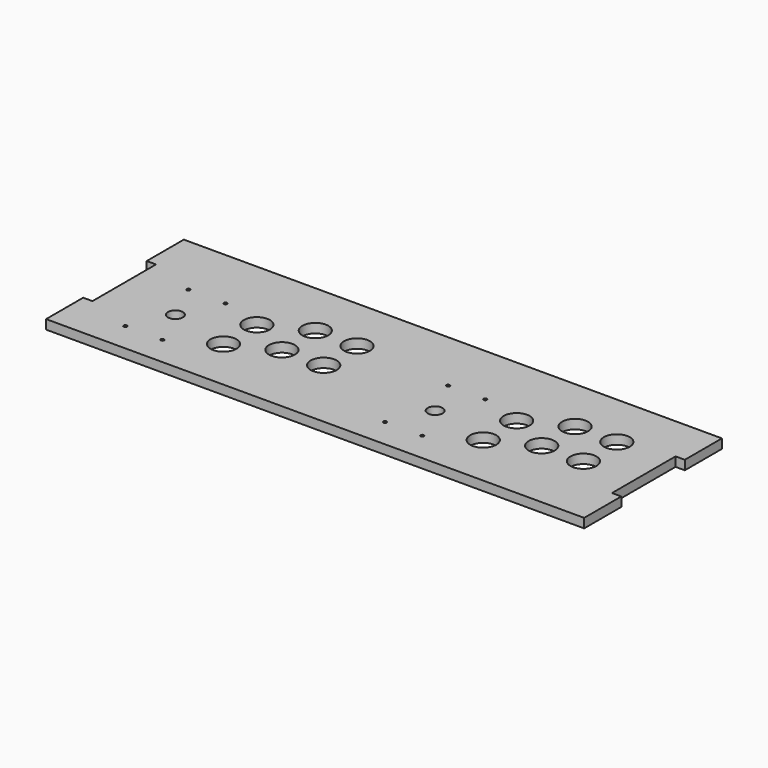
from build123d import *

# Parameters (mm, degrees)
PAD_DEPTH     = 10
SKETCH001_R   = 8
SKETCH001_R_2 = 14
SKETCH001_R_3 = 1.8
POCKET_DEPTH  = 10.001


with BuildPart() as part:
    # Sketch → Pad (new body)
    with BuildSketch(Plane.XY):
        Polygon((0, 0), (560, 0), (570, 0), (570, 50), (560, 50), (560, 135.6), (570, 135.6), (570, 185.6), (560, 185.6), (0, 185.6), (-10, 185.6), (-10, 135.6), (0, 135.6), (0, 50), (-10, 50), (-10, 0), align=None)
    extrude(amount=PAD_DEPTH)

    # Sketch001 → Pocket (cut, through all)
    with BuildSketch(Plane.XY.offset(10)):
        with Locations((70, 74.24)):
            Circle(SKETCH001_R)
        with Locations((135, 102.76)):
            Circle(SKETCH001_R_2)
        with Locations((180, 125.26)):
            Circle(SKETCH001_R_2)
        with Locations((225, 125.26)):
            Circle(SKETCH001_R_2)
        with Locations((135, 57.76)):
            Circle(SKETCH001_R_2)
        with Locations((180, 80.26)):
            Circle(SKETCH001_R_2)
        with Locations((225, 80.26)):
            Circle(SKETCH001_R_2)
        with Locations((350, 74.24)):
            Circle(SKETCH001_R)
        with Locations((415, 102.76)):
            Circle(SKETCH001_R_2)
        with Locations((460, 125.26)):
            Circle(SKETCH001_R_2)
        with Locations((505, 125.26)):
            Circle(SKETCH001_R_2)
        with Locations((505, 80.26)):
            Circle(SKETCH001_R_2)
        with Locations((460, 80.26)):
            Circle(SKETCH001_R_2)
        with Locations((415, 57.76)):
            Circle(SKETCH001_R_2)
        with Locations((50, 116.74)):
            Circle(SKETCH001_R_3)
        with Locations((90, 116.74)):
            Circle(SKETCH001_R_3)
        with Locations((50, 31.74)):
            Circle(SKETCH001_R_3)
        with Locations((90, 31.74)):
            Circle(SKETCH001_R_3)
        with Locations((330, 116.74)):
            Circle(SKETCH001_R_3)
        with Locations((370, 116.74)):
            Circle(SKETCH001_R_3)
        with Locations((370, 31.74)):
            Circle(SKETCH001_R_3)
        with Locations((330, 31.74)):
            Circle(SKETCH001_R_3)
    extrude(amount=-POCKET_DEPTH, mode=Mode.SUBTRACT)


solid = part.part
